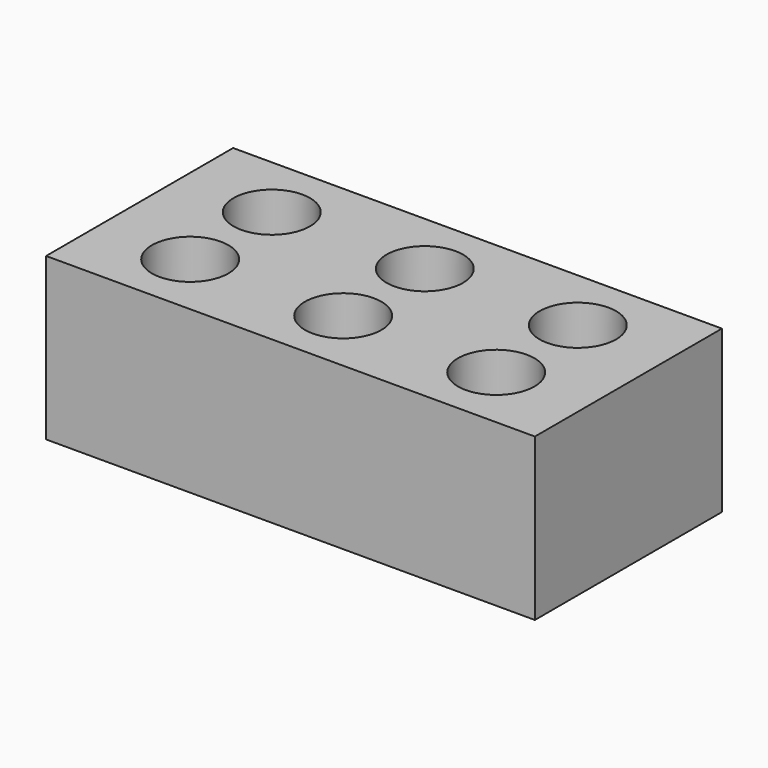
from build123d import *

# Parameters (mm, degrees)
CYLINDER002_R     = 18
CYLINDER002_DEPTH = 76
CYLINDER001_R     = 18
CYLINDER001_DEPTH = 76
CYLINDER003_R     = 18
CYLINDER003_DEPTH = 76
CYLINDER005_R     = 18
CYLINDER005_DEPTH = 76
CYLINDER004_R     = 18
CYLINDER004_DEPTH = 76
CYLINDER_R        = 18
CYLINDER_DEPTH    = 76
BOX_W             = 230
BOX_H             = 110
BOX_DEPTH         = 76


with BuildPart() as obj1:
    # Cylinder002 → Cylinder002 (new body)
    with BuildSketch(Plane(origin=(144, 0, 0), x_dir=(1, 0, 0), z_dir=(0, 0, 1))):
        Circle(CYLINDER002_R)
    extrude(amount=CYLINDER002_DEPTH)


with BuildPart() as obj2:
    # Cylinder001 → Cylinder001 (new body)
    with BuildSketch(Plane(origin=(72, 0, 0), x_dir=(1, 0, 0), z_dir=(0, 0, 1))):
        Circle(CYLINDER001_R)
    extrude(amount=CYLINDER001_DEPTH)


with BuildPart() as obj3:
    # Cylinder003 → Cylinder003 (new body)
    with BuildSketch(Plane(origin=(72, 48, 0), x_dir=(1, 0, 0), z_dir=(0, 0, 1))):
        Circle(CYLINDER003_R)
    extrude(amount=CYLINDER003_DEPTH)


with BuildPart() as obj4:
    # Cylinder005 → Cylinder005 (new body)
    with BuildSketch(Plane(origin=(144, 48, 0), x_dir=(1, 0, 0), z_dir=(0, 0, 1))):
        Circle(CYLINDER005_R)
    extrude(amount=CYLINDER005_DEPTH)


with BuildPart() as obj5:
    # Cylinder004 → Cylinder004 (new body)
    with BuildSketch(Plane(origin=(0, 48, 0), x_dir=(1, 0, 0), z_dir=(0, 0, 1))):
        Circle(CYLINDER004_R)
    extrude(amount=CYLINDER004_DEPTH)


with BuildPart() as fusion:
    # Cylinder → Cylinder (new body)
    with BuildSketch(Plane.XY):
        Circle(CYLINDER_R)
    extrude(amount=CYLINDER_DEPTH)

    # Fusion: union obj1, obj2, obj3, obj4, obj5
    add(obj1.part)
    add(obj2.part)
    add(obj3.part)
    add(obj4.part)
    add(obj5.part)


with BuildPart() as cut:
    # Box → Box (new body)
    with BuildSketch(Plane(origin=(-43, -31, 0), x_dir=(1, 0, 0), z_dir=(0, 0, 1))):
        with Locations((115, 55)):
            Rectangle(BOX_W, BOX_H)
    extrude(amount=BOX_DEPTH)

    # Cut: cut Fusion
    add(fusion.part, mode=Mode.SUBTRACT)


solid = cut.part
